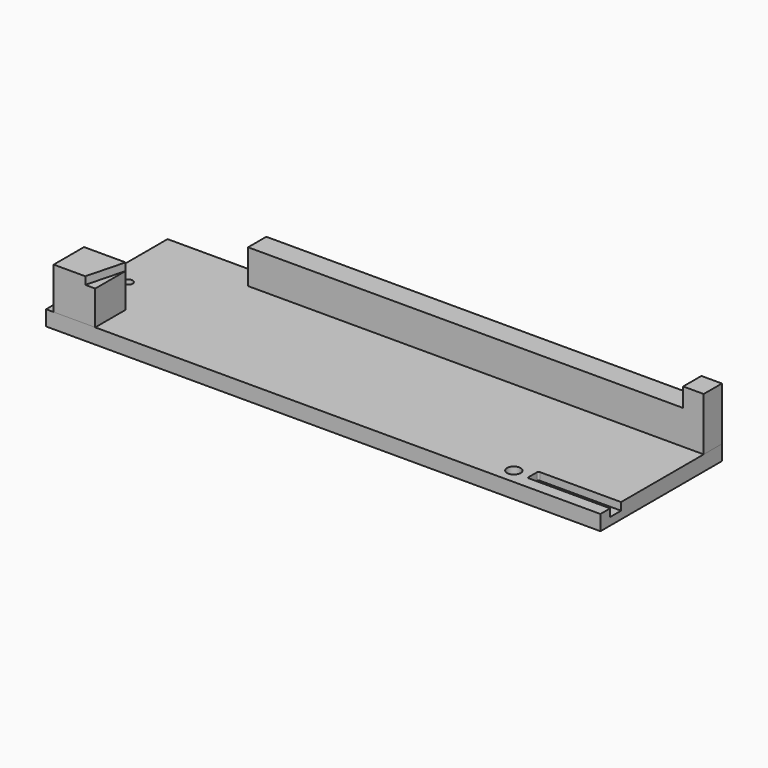
from build123d import *

# Parameters (mm, degrees)
F0_W              = 730
F0_H              = 200
F1_DEPTH          = 20
F2_W              = 600
F2_H              = 30
F3_DEPTH          = 45
F4_W              = 27
F4_H              = 30
F5_DEPTH          = 25
F6_W              = 54.7
F6_H              = 50
F7_DEPTH          = 45
F9_DEPTH          = 10
F11_DEPTH         = 10
F13_D             = 4.2
F13_CSINK_D       = 5.5
F13_CSINK_ANGLE   = 90
F15_D             = 4.2
F15_CSINK_D       = 5.2
F15_CSINK_ANGLE   = 90
F16_D             = 12
F16_CSINK_D       = 14.2
F16_CSINK_ANGLE   = 90
F17_D             = 5
F17_DEPTH         = 20
F17_CBORE_D       = 10
F17_CBORE_DEPTH   = 5.5
F17_TIP           = 1.5021515476
F17_2_D           = 5
F17_2_DEPTH       = 20
F17_2_CBORE_D     = 10
F17_2_CBORE_DEPTH = 5.5
F17_2_TIP         = 1.5021515476
F18_R             = 9
F18_R_2           = 6
F19_DEPTH         = 90.001
F20_R             = 15.1
F20_R_2           = 9
F20_R_3           = 12.5
F20_R_4           = 6
F21_DEPTH         = 4.2


with BuildPart() as f1:
    # F0 (on Top) → F1 (new body)
    with BuildSketch(Plane.XY):
        with Locations((-310.177372545, 88.43071796)):
            Rectangle(F0_W, F0_H)
    extrude(amount=F1_DEPTH)

    # F10 (on face) → F11 (cut)
    with BuildSketch(Plane.XY.offset(20)):
        with BuildLine():
            Line((54.822627455, 4.43071796), (54.822627455, 22.43071796))
            Line((54.822627455, 22.43071796), (-52.177372545, 22.43071796))
            ThreePointArc((-52.177372545, 22.43071796), (-53.5915861074, 21.8449315224), (-54.177372545, 20.43071796))
            Line((-54.177372545, 20.43071796), (-54.177372545, 6.43071796))
            ThreePointArc((-54.177372545, 6.43071796), (-53.5915861074, 5.0165043976), (-52.177372545, 4.43071796))
            Line((-52.177372545, 4.43071796), (54.822627455, 4.43071796))
        make_face()
    extrude(amount=-F11_DEPTH, mode=Mode.SUBTRACT)

    # F13 (through all)
    with Locations(Plane.XY.offset(10)):
        with Locations((4.822627455, 13.43071796)):
            CounterSinkHole(F13_D / 2, F13_CSINK_D / 2, counter_sink_angle=F13_CSINK_ANGLE)

    # F15 (through all)
    with Locations(Plane(origin=(0, 0, 0), x_dir=(1, 0, 0), z_dir=(0, 0, -1))):
        with Locations((-15.527372545, -172.93071796), (-467.527372545, -172.93071796)):
            CounterSinkHole(F15_D / 2, F15_CSINK_D / 2, counter_sink_angle=F15_CSINK_ANGLE)

    # F16 (through all)
    with Locations(Plane(origin=(0, 0, 0), x_dir=(1, 0, 0), z_dir=(0, 0, -1))):
        with Locations((-647.177372545, -88.43071796)):
            CounterSinkHole(F16_D / 2, F16_CSINK_D / 2, counter_sink_angle=F16_CSINK_ANGLE)

    # F17
    with Locations(Plane(origin=(0, 0, 0), x_dir=(1, 0, 0), z_dir=(0, 0, -1))):
        with Locations((-655.177372545, -13.43071796), (-625.177372545, -13.43071796)):
            CounterBoreHole(F17_D / 2, F17_CBORE_D / 2, F17_CBORE_DEPTH, depth=F17_DEPTH)
            with Locations((0, 0, -(F17_DEPTH + F17_TIP / 2))):  # 118° drill point
                Cone(0, F17_D / 2, F17_TIP, mode=Mode.SUBTRACT)

    # F18 (on face) → F19 (cut, through all)
    with BuildSketch(Plane(origin=(0, 0, 0), x_dir=(1, 0, 0), z_dir=(0, 0, -1))):
        with Locations((-75.177372545, -8.43071796)):
            Circle(F18_R)
        with Locations((-75.177372545, -168.43071796)):
            Circle(F18_R_2)
    extrude(amount=-F19_DEPTH, mode=Mode.SUBTRACT)

    # F20 (on face) → F21 (cut)
    with BuildSketch(Plane(origin=(0, 0, 0), x_dir=(1, 0, 0), z_dir=(0, 0, -1))):
        with Locations((-75.177372545, -8.43071796)):
            Circle(F20_R)
        with Locations((-75.177372545, -8.43071796)):
            Circle(F20_R_2, mode=Mode.SUBTRACT)
        with Locations((-75.177372545, -168.43071796)):
            Circle(F20_R_3)
        with Locations((-75.177372545, -168.43071796)):
            Circle(F20_R_4, mode=Mode.SUBTRACT)
    extrude(amount=-F21_DEPTH, mode=Mode.SUBTRACT)


with BuildPart() as f3:
    # F2 (on face) → F3 (new body)
    with BuildSketch(Plane.XY.offset(20)):
        with Locations((-245.177372545, 173.43071796)):
            Rectangle(F2_W, F2_H)
    extrude(amount=F3_DEPTH)

    # F4 (on face) → F5 (join)
    with BuildSketch(Plane.XY.offset(65)):
        with Locations((41.322627455, 173.43071796)):
            Rectangle(F4_W, F4_H)
    extrude(amount=F5_DEPTH)


with BuildPart() as f7:
    # F6 (on face) → F7 (new body)
    with BuildSketch(Plane.XY.offset(20)):
        with Locations((-637.827372545, 13.43071796)):
            Rectangle(F6_W, F6_H)
    extrude(amount=F7_DEPTH)

    # F8 (on face) → F9 (join)
    with BuildSketch(Plane.XY.offset(65)):
        Polygon((-610.477372545, 38.43071796), (-665.177372545, 38.43071796), (-665.177372545, -11.56928204), (-623.577372545, -11.56928204), align=None)
    extrude(amount=F9_DEPTH)

    # F17#2
    with Locations(Plane(origin=(0, 0, 0), x_dir=(1, 0, 0), z_dir=(0, 0, -1))):
        with Locations((-655.177372545, -13.43071796), (-625.177372545, -13.43071796)):
            CounterBoreHole(F17_2_D / 2, F17_2_CBORE_D / 2, F17_2_CBORE_DEPTH, depth=F17_2_DEPTH)
            with Locations((0, 0, -(F17_2_DEPTH + F17_2_TIP / 2))):  # 118° drill point
                Cone(0, F17_2_D / 2, F17_2_TIP, mode=Mode.SUBTRACT)


solid = Compound([f1.part, f3.part, f7.part])
